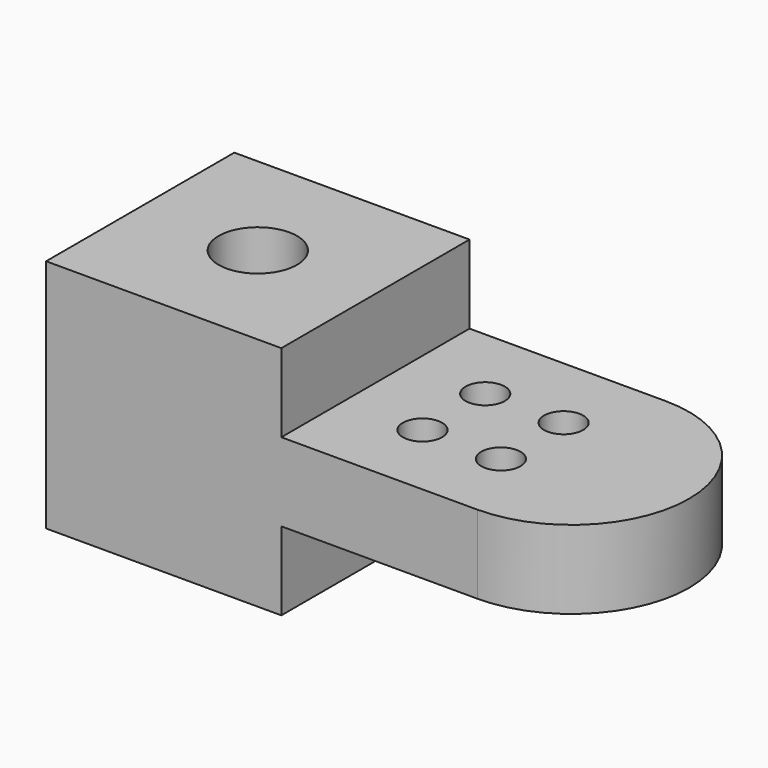
from build123d import *

# Parameters (mm, degrees)
F1_DEPTH = 19.05
F2_DEPTH = 6.35
F4_D     = 12.7
F5_D     = 6.35


with BuildPart() as f1:
    # F0 (on Top) → F1 (new body, symmetric)
    with BuildSketch(Plane.XY):
        Polygon((38.1, 19.05), (0, 19.05), (0, 0), (0, -19.05), (38.1, -19.05), align=None)
    extrude(amount=F1_DEPTH, both=True)

    # F0 (on Top) → F2 (join, symmetric)
    with BuildSketch(Plane.XY):
        with BuildLine():
            Line((69.85, 19.05), (38.1, 19.05))
            Line((38.1, 19.05), (38.1, -19.05))
            Line((38.1, -19.05), (69.85, -19.05))
            ThreePointArc((69.85, -19.05), (88.9, 0), (69.85, 19.05))
        make_face()
    extrude(amount=F2_DEPTH, both=True)

    # F4 (through all)
    with Locations(Plane.XY.offset(19.05)):
        with Locations((19.05, 0)):
            Hole(F4_D / 2)

    # F5 (through all)
    with Locations(Plane.XY.offset(19.05)):
        with Locations((50.8, 6.35), (63.5, 6.35), (63.5, -6.35), (50.8, -6.35)):
            Hole(F5_D / 2)


solid = f1.part
